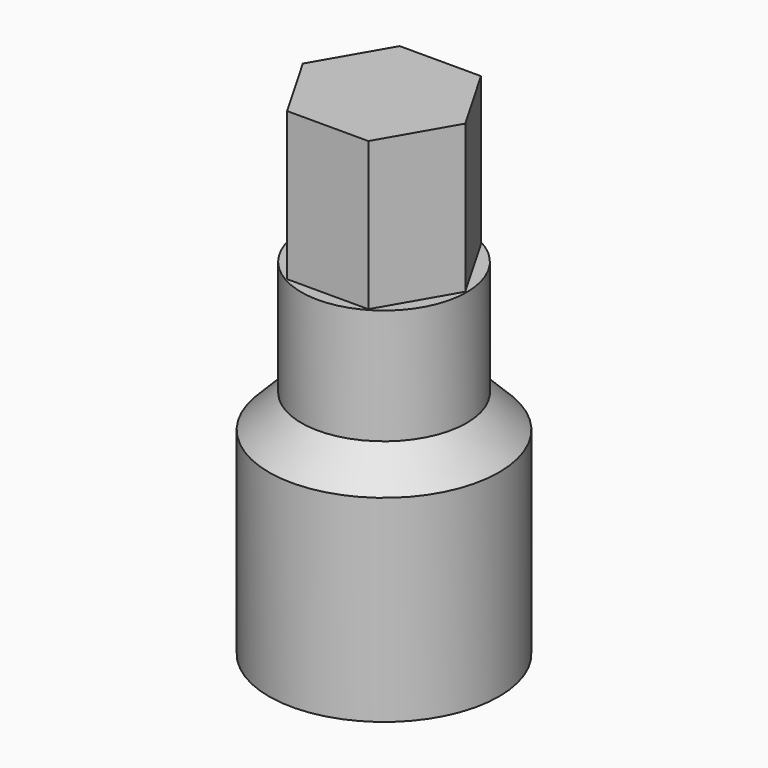
from build123d import *

# Parameters (mm, degrees)
SKETCH031_R     = 7
PAD023_DEPTH    = 12
SKETCH033_R     = 5.03
PAD024_DEPTH    = 21
PAD025_DEPTH    = 30
POCKET005_DEPTH = 5


with BuildPart() as part:
    # Sketch031 → Pad023 (new body)
    with BuildSketch(Plane.XY):
        Circle(SKETCH031_R)
    extrude(amount=PAD023_DEPTH)

    # Sketch033 → Pad024 (join)
    with BuildSketch(Plane.XY):
        Circle(SKETCH033_R)
    extrude(amount=PAD024_DEPTH)

    # Sketch034 → Pad025 (join)
    with BuildSketch(Plane.XY):
        Polygon((4.94, 0), (2.47, 4.278165), (-2.47, 4.278165), (-4.94, 0), (-2.47, -4.278165), (2.47, -4.278165), align=None)
    extrude(amount=PAD025_DEPTH)

    # Sketch032 → Pocket005 (cut)
    with BuildSketch(Plane.XY):
        Polygon((4.965, 0), (2.4825, 4.299816), (-2.4825, 4.299816), (-4.965, 0), (-2.4825, -4.299816), (2.4825, -4.299816), align=None)
    extrude(amount=POCKET005_DEPTH, mode=Mode.SUBTRACT)

    # Sketch035 → Revolution007 (revolve)
    with BuildSketch(Plane.XZ):
        Polygon((5.03, 12), (7, 12), (5.03, 14), align=None)
    revolve(axis=Axis((0, 0, 0), (0, 0, 1)))


solid = part.part
